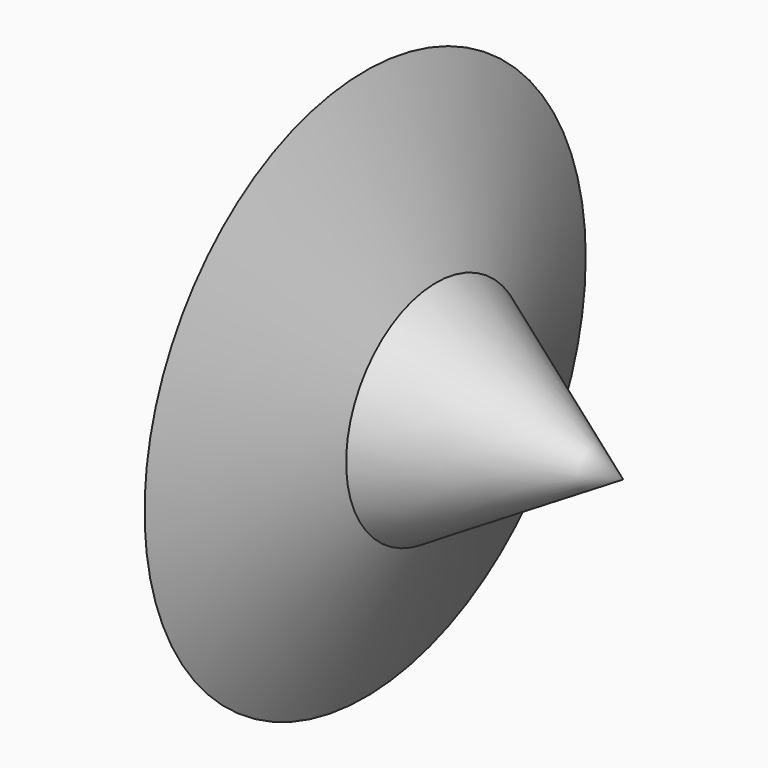
from build123d import *

# Parameters (mm, degrees)
F3_DEPTH = 20.32


with BuildPart() as f1:
    # F0 (on Top) → F1 (revolve)
    with BuildSketch(Plane.XY):
        Polygon((-104.780167, 34.465145), (-113.922991, 13.061245), (-113.922991, -45.366053), (-30.059477, -45.366053), (-84.21699, -12.788737), align=None)
    revolve(axis=Axis((-71.991234, -45.366053, 0), (1, 0, 0)))

    # F2 (on face) → F3 (cut)
    with BuildSketch(Plane(origin=(-113.922991, 0, 0), x_dir=(0, -1, 0), z_dir=(-1, 0, 0))):
        Polygon((83.333594, -26.875875), (87.625014, 19.442918), (49.657472, 46.318793), (7.398511, 26.875875), (3.107091, -19.442918), (41.074633, -46.318793), align=None)
    extrude(amount=-F3_DEPTH, mode=Mode.SUBTRACT)


solid = f1.part
